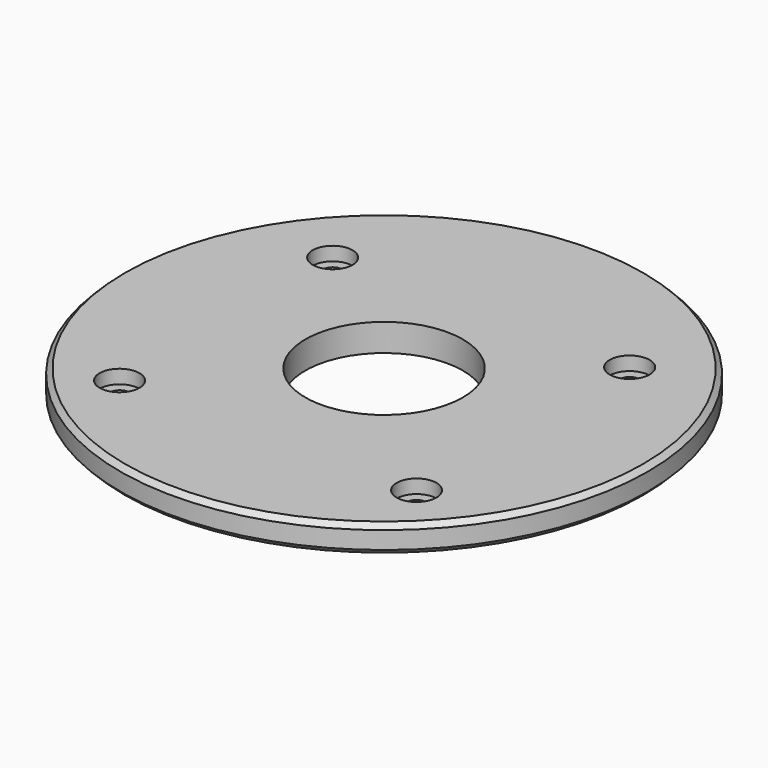
from build123d import *

# Parameters (mm, degrees)
F2_R     = 67.2650557496
F2_R_2   = 5.08
F2_R_3   = 20.066
F3_DEPTH = 7
F1_R     = 5.08
F1_R_2   = 2.54
F4_DEPTH = 3.5
F5_SIZE  = 1.27


with BuildPart() as f3:
    # F2 (on Top) → F3 (new body)
    with BuildSketch(Plane.XY):
        Circle(F2_R)
        with Locations((-37.846, -36.957)):
            Circle(F2_R_2, mode=Mode.SUBTRACT)
        with Locations((37.846, -36.957)):
            Circle(F2_R_2, mode=Mode.SUBTRACT)
        with Locations((-37.846, 30.9118)):
            Circle(F2_R_2, mode=Mode.SUBTRACT)
        Circle(F2_R_3, mode=Mode.SUBTRACT)
        with Locations((37.846, 30.9118)):
            Circle(F2_R_2, mode=Mode.SUBTRACT)
    extrude(amount=F3_DEPTH)

    # F1 (on Top) → F4 (join)
    with BuildSketch(Plane.XY):
        with Locations((-37.846, 30.9118)):
            Circle(F1_R)
        with Locations((-37.846, 30.9118)):
            Circle(F1_R_2, mode=Mode.SUBTRACT)
        with Locations((37.846, 30.9118)):
            Circle(F1_R)
        with Locations((37.846, 30.9118)):
            Circle(F1_R_2, mode=Mode.SUBTRACT)
        with Locations((37.846, -36.957)):
            Circle(F1_R)
        with Locations((37.846, -36.957)):
            Circle(F1_R_2, mode=Mode.SUBTRACT)
        with Locations((-37.846, -36.957)):
            Circle(F1_R)
        with Locations((-37.846, -36.957)):
            Circle(F1_R_2, mode=Mode.SUBTRACT)
    extrude(amount=F4_DEPTH)

    # F5
    f5_edges = [f3.edges().sort_by_distance(p)[0] for p in [
        (-67.265056, 0, 0),
        (-67.265056, 0, 7),
    ]]
    chamfer(f5_edges, length=F5_SIZE)


solid = f3.part
